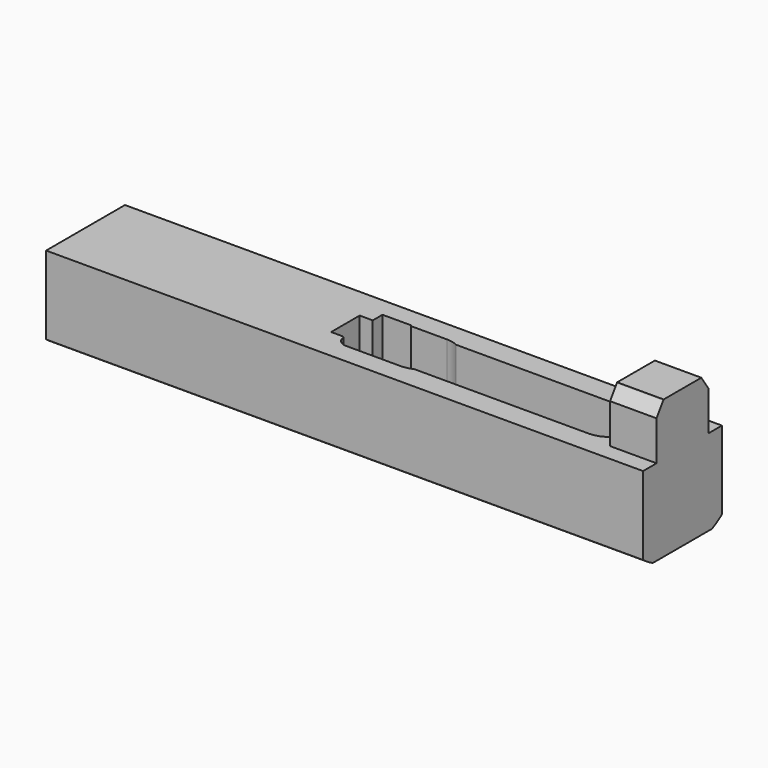
from build123d import *

# Parameters (mm, degrees)
F1_DEPTH  = 173
F3_DEPTH  = 173.001
F5_DEPTH  = 173.001
F6_W      = 159.538
F6_H      = 15.24
F7_DEPTH  = 23.6865
F9_DEPTH  = 18.161
F11_DEPTH = 24.893
F13_DEPTH = 24.893


with BuildPart() as f1:
    # F0 (on Right) → F1 (new body)
    with BuildSketch(Plane.YZ):
        with BuildLine():
            ThreePointArc((-16, 0), (0, -6.2), (16, 0))
            Line((16, 0), (16, 22.539117))
            ThreePointArc((16, 22.539117), (15.933845, 22.979673), (15.741214, 23.381369))
            Line((15.741214, 23.381369), (6.946329, 36.342252))
            ThreePointArc((6.946329, 36.342252), (6.407476, 36.825401), (5.705115, 37))
            Line((5.705115, 37), (-5.705115, 37))
            ThreePointArc((-5.705115, 37), (-6.407476, 36.825401), (-6.946329, 36.342252))
            Line((-6.946329, 36.342252), (-15.741214, 23.381369))
            ThreePointArc((-15.741214, 23.381369), (-15.933845, 22.979673), (-16, 22.539117))
            Line((-16, 22.539117), (-16, 0))
        make_face()
    extrude(amount=F1_DEPTH)

    # F2 (on face) → F3 (cut, through all)
    with BuildSketch(Plane(origin=(0, 0, 0), x_dir=(0, -1, 0), z_dir=(-1, 0, 0))):
        Polygon((-16, 21.26), (-9.398, 21.26), (-9.398, 36.5), (9.398, 36.5), (9.398, 21.26), (16, 21.26), (16, 39.197723), (-16, 39.197723), align=None)
    extrude(amount=-F3_DEPTH, mode=Mode.SUBTRACT)

    # F4 (on face) → F5 (cut, through all)
    with BuildSketch(Plane(origin=(0, 0, 0), x_dir=(0, -1, 0), z_dir=(-1, 0, 0))):
        Polygon((-14.2875, 21.26), (-16, 21.26), (-16, -10.530328), (16, -10.530328), (16, 21.26), (14.2875, 21.26), (14.2875, -3.632), (-14.2875, -3.632), align=None)
    extrude(amount=-F5_DEPTH, mode=Mode.SUBTRACT)

    # F6 (on face) → F7 (cut, through all)
    with BuildSketch(Plane(origin=(0, 9.398, 0), x_dir=(-1, 0, 0), z_dir=(0, 1, 0))):
        with Locations((-79.769, 28.88)):
            Rectangle(F6_W, F6_H)
    extrude(amount=-F7_DEPTH, mode=Mode.SUBTRACT)

    # F8 (on face) → F9 (cut)
    with BuildSketch(Plane.XY.offset(21.26)):
        with BuildLine():
            Line((85.9796, -7.62), (151.918, -7.62))
            ThreePointArc((151.918, -7.62), (159.538, 0), (151.918, 7.62))
            Line((151.918, 7.62), (85.9796, 7.62))
            ThreePointArc((85.9796, 7.62), (78.3596, 0), (85.9796, -7.62))
        make_face()
    extrude(amount=-F9_DEPTH, mode=Mode.SUBTRACT)

    # F10 (on face) → F11 (cut, through all)
    with BuildSketch(Plane.XY.offset(21.26)):
        with BuildLine():
            Line((109.0682, -4.445), (109.0682, 4.445))
            ThreePointArc((109.0682, 4.445), (108.138264, 6.690064), (105.8932, 7.62))
            Line((105.8932, 7.62), (101.340681, 7.62))
            ThreePointArc((101.340681, 7.62), (99.723084, 8.189057), (98.0192, 8.382))
            Line((98.0192, 8.382), (79.8582, 8.382))
            Line((79.8582, 8.382), (79.8582, 5))
            Line((79.8582, 5), (75.7942, 5))
            Line((75.7942, 5), (75.7942, -1.642426))
            ThreePointArc((75.7942, -1.642426), (76.219569, -3.229926), (77.3817, -4.392056))
            Line((77.3817, -4.392056), (79.101182, -5.3848))
            ThreePointArc((79.101182, -5.3848), (80.089903, -7.51407), (82.2712, -8.382))
            Line((82.2712, -8.382), (98.0192, -8.382))
            ThreePointArc((98.0192, -8.382), (99.723084, -8.189057), (101.340681, -7.62))
            Line((101.340681, -7.62), (105.8932, -7.62))
            ThreePointArc((105.8932, -7.62), (108.138264, -6.690064), (109.0682, -4.445))
        make_face()
    extrude(amount=-F11_DEPTH, mode=Mode.SUBTRACT)

    # F12 (on face) → F13 (cut, through all)
    with BuildSketch(Plane.XY.offset(21.26)):
        Polygon((75.3116, -5.1765), (87.6052, -5.1765), (87.6052, 8.7071), (79.0962, 8.7071), (79.0962, 5.1765), (75.3116, 5.1765), align=None)
    extrude(amount=-F13_DEPTH, mode=Mode.SUBTRACT)


solid = f1.part
